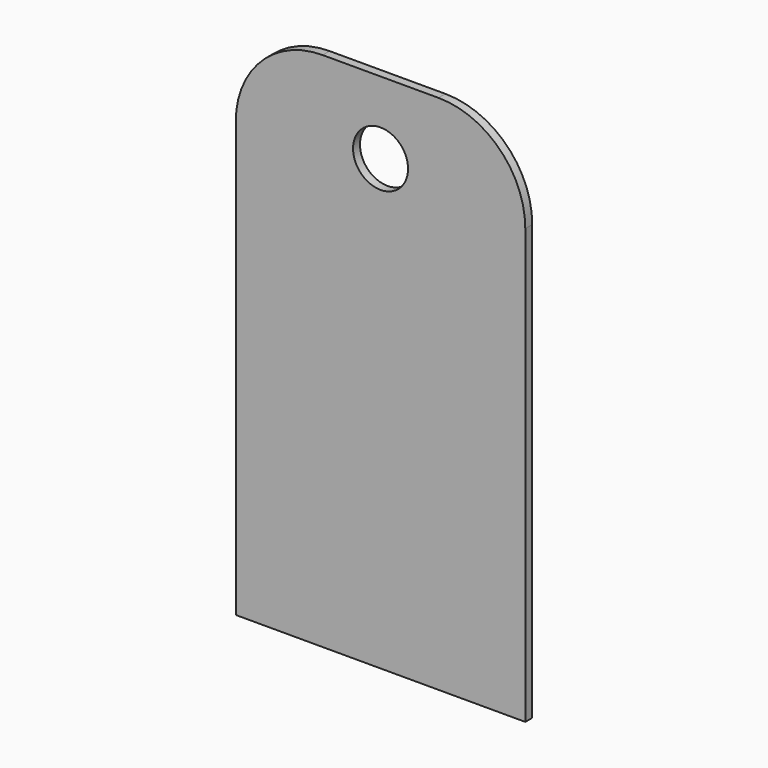
from build123d import *

# Parameters (mm, degrees)
F0_W     = 100
F0_H     = 180
F0_R     = 9.5
F1_DEPTH = 3
F2_R     = 30


with BuildPart() as f1:
    # F0 (on Front) → F1 (new body)
    with BuildSketch(Plane.XZ):
        Rectangle(F0_W, F0_H)
        with Locations((0, 65)):
            Circle(F0_R, mode=Mode.SUBTRACT)
    extrude(amount=F1_DEPTH)

    # F2
    f2_edges = [f1.edges().sort_by_distance(p)[0] for p in [
        (-50, -1.5, 90),
        (50, -1.5, 90),
    ]]
    fillet(f2_edges, radius=F2_R)


solid = f1.part
